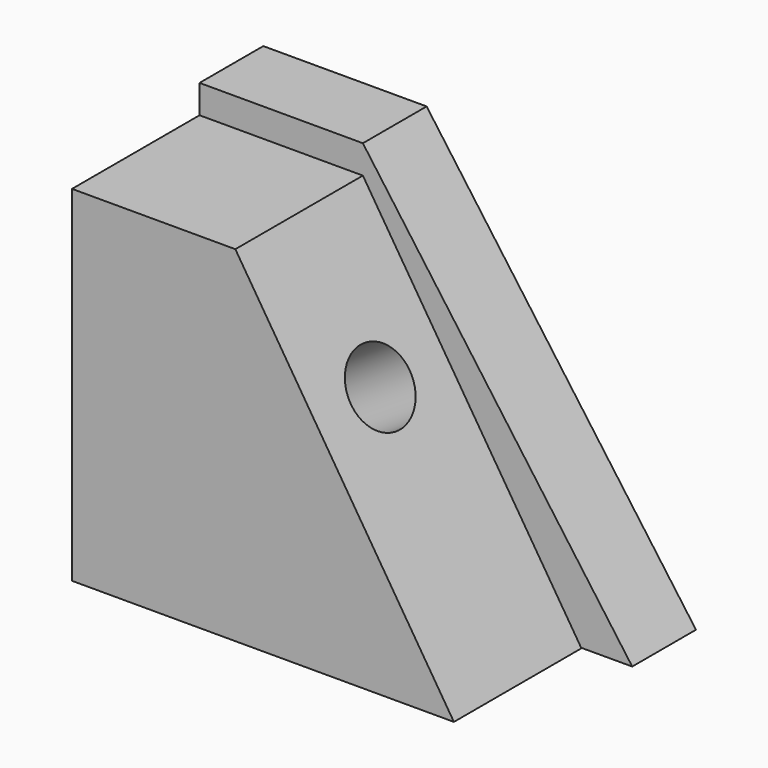
from build123d import *

# Parameters (mm, degrees)
F0_W     = 93.299177
F0_H     = 54.989692
F1_DEPTH = 25.4
F3_DEPTH = 25.4
F4_R     = 5.858144
F5_DEPTH = 25.4
F6_W     = 80.10165
F6_H     = 55.35629
F7_DEPTH = 25.4
F9_DEPTH = 12.7


with BuildPart() as f1:
    # F0 (on Front) → F1 (new body)
    with BuildSketch(Plane.XZ):
        with Locations((2.107938, 5.224021)):
            Rectangle(F0_W, F0_H)
    extrude(amount=F1_DEPTH)

    # F2 (on face) → F3 (cut)
    with BuildSketch(Plane.XZ.offset(25.4)):
        Polygon((55.539589, 35.285052), (-18.513195, 32.718867), (16.313609, -22.270825), (61.221853, -24.653712), align=None)
    extrude(amount=-F3_DEPTH, mode=Mode.SUBTRACT)

    # F4 (on face) → F5 (cut)
    with BuildSketch(Plane(origin=(1.57643, 0, 0.998406), x_dir=(0, 1, 0), z_dir=(0.844819, 0, 0.535052))):
        with Locations((-12.647629, 13.463562)):
            Circle(F4_R)
    extrude(amount=-F5_DEPTH, mode=Mode.SUBTRACT)

    # F6 (on Front) → F7 (cut)
    with BuildSketch(Plane.XZ):
        with Locations((-4.857423, 5.040722)):
            Rectangle(F6_W, F6_H)
    extrude(amount=-F7_DEPTH, mode=Mode.SUBTRACT)

    # F8 (on face) → F9 (join)
    with BuildSketch(Plane(origin=(0, 0, 0), x_dir=(-1, 0, 0), z_dir=(0, 1, 0))):
        Polygon((44.54165, 37.259281), (18.513195, 37.259281), (-24.408791, -22.19771), (44.54165, -22.270825), align=None)
    extrude(amount=F9_DEPTH)


solid = f1.part
